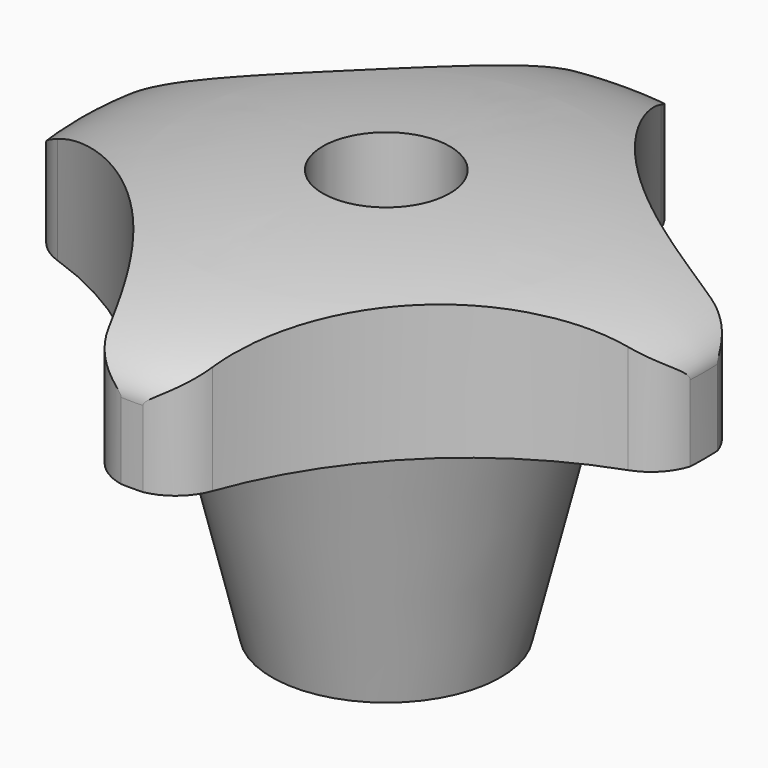
from build123d import *

# Parameters (mm, degrees)
F3_DEPTH = 100
F5_D     = 10


with BuildPart() as f1:
    # F0 (on Right) → F1 (revolve)
    with BuildSketch(Plane.YZ):
        with BuildLine():
            Line((0, 32.3266497701), (0, 0))
            Line((0, 0), (9, 0))
            Line((9, 0), (13.925663583, 20.3266497701))
            Line((13.925663583, 20.3266497701), (25, 20.3266497701))
            Line((25, 20.3266497701), (25, 26.3266497701))
            add(Edge.make_bspline(
                [(25, 26.3266497701), (25, 32.3266497701), (0, 32.3266497701)],
                knots=[0, 0, 0, 1.5707963268, 1.5707963268, 1.5707963268], degree=2, weights=[1, 0.7071067812, 1]))
        make_face()
    revolve(axis=Axis((0, 0, 16.1633248851), (0, 0, -1)))

    # F2 (on Top) → F3 (intersect)
    with BuildSketch(Plane.XY):
        with BuildLine():
            ThreePointArc((-3.754235732, 22.3323114682), (-11.041772693, 11.1341950684), (-22.4685130723, 4.2106403335))
            ThreePointArc((-22.4685130723, 4.2106403335), (-25.5082976179, 0.022874934), (-22.51186286, -4.1960168477))
            ThreePointArc((-22.51186286, -4.1960168477), (-11.2684741638, -11.1275544115), (-4.0917559502, -22.2160492621))
            ThreePointArc((-4.0917559502, -22.2160492621), (0.0139431693, -25.0707596903), (4.1012988558, -22.1898465746))
            ThreePointArc((4.1012988558, -22.1898465746), (11.1616155781, -11.1006865584), (22.2852773965, -4.0948540004))
            ThreePointArc((22.2852773965, -4.0948540004), (25.1766523938, 0.0226602251), (22.2424904136, 4.1097944591))
            ThreePointArc((22.2424904136, 4.1097944591), (10.9343752254, 11.1089431069), (3.7628862808, 22.3085545833))
            ThreePointArc((3.7628862808, 22.3085545833), (0.0126414158, 24.9518154629), (-3.754235732, 22.3323114682))
        make_face()
    extrude(amount=F3_DEPTH, mode=Mode.INTERSECT)

    # F5 (through all)
    with Locations(Plane(origin=(0, 0, 0), x_dir=(1, 0, 0), z_dir=(0, 0, -1))):
        with Locations((0, 0)):
            Hole(F5_D / 2)


solid = f1.part
